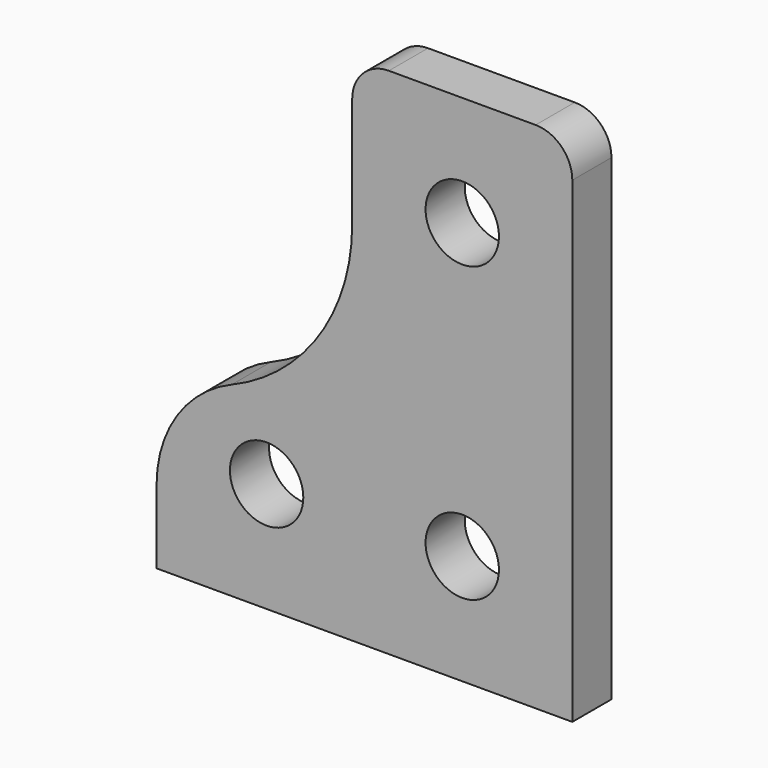
from build123d import *

# Parameters (mm, degrees)
F0_W      = 17
F0_H      = 15
F1_DEPTH  = 2
F2_R      = 1.5
F3_DEPTH  = 25
F4_W      = 9
F4_H      = 2
F5_DEPTH  = 6
F6_R      = 1.5
F7_DEPTH  = 25
F8_R      = 1.5
F9_W      = 17
F9_H      = 2
F10_DEPTH = 1
F11_W     = 17
F11_H     = 6
F12_DEPTH = 8
F13_W     = 17
F13_H     = 8
F14_DEPTH = 25
F15_W     = 17
F15_H     = 2
F16_DEPTH = 1
F17_R     = 8
F18_DEPTH = 25
F19_R     = 5


with BuildPart() as f1:
    # F0 (on Front) → F1 (new body)
    with BuildSketch(Plane.XZ):
        Rectangle(F0_W, F0_H)
    extrude(amount=F1_DEPTH)

    # F2 (on face) → F3 (cut)
    with BuildSketch(Plane.XZ.offset(2)):
        with Locations((-4, -3)):
            Circle(F2_R)
        with Locations((4, -3)):
            Circle(F2_R)
    extrude(amount=-F3_DEPTH, mode=Mode.SUBTRACT)

    # F4 (on face) → F5 (join)
    with BuildSketch(Plane.XY.offset(7.5)):
        with Locations((4, -1)):
            Rectangle(F4_W, F4_H)
    extrude(amount=F5_DEPTH)

    # F6 (on face) → F7 (cut)
    with BuildSketch(Plane.XZ.offset(2)):
        with Locations((4, 9)):
            Circle(F6_R)
    extrude(amount=-F7_DEPTH, mode=Mode.SUBTRACT)

    # F8
    f8_edges = [f1.edges().sort_by_distance(p)[0] for p in [
        (8.5, -1, 13.5),
        (-0.5, -1, 13.5),
    ]]
    fillet(f8_edges, radius=F8_R)

    # F9 (on face) → F10 (join)
    with BuildSketch(Plane(origin=(0, 0, -7.5), x_dir=(1, 0, 0), z_dir=(0, 0, -1))):
        with Locations((0, 1)):
            Rectangle(F9_W, F9_H)
    extrude(amount=F10_DEPTH)

    # F11 (on face) → F12 (join)
    with BuildSketch(Plane(origin=(0, 0, -8.5), x_dir=(1, 0, 0), z_dir=(0, 0, -1))):
        with Locations((0, -1)):
            Rectangle(F11_W, F11_H)
    extrude(amount=F12_DEPTH)

    # F13 (on face) → F14 (cut)
    with BuildSketch(Plane(origin=(0, 4, 0), x_dir=(-1, 0, 0), z_dir=(0, 1, 0))):
        with Locations((0, -12.5)):
            Rectangle(F13_W, F13_H)
    extrude(amount=-F14_DEPTH, mode=Mode.SUBTRACT)

    # F15 (on face) → F16 (cut)
    with BuildSketch(Plane(origin=(0, 0, -8.5), x_dir=(1, 0, 0), z_dir=(0, 0, -1))):
        with Locations((0, 1)):
            Rectangle(F15_W, F15_H)
    extrude(amount=-F16_DEPTH, mode=Mode.SUBTRACT)

    # F17 (on face) → F18 (cut)
    with BuildSketch(Plane(origin=(0, 0, 0), x_dir=(-1, 0, 0), z_dir=(0, 1, 0))):
        with Locations((8.5, 7.5)):
            Circle(F17_R)
    extrude(amount=-F18_DEPTH, mode=Mode.SUBTRACT)

    # F19
    f19_edges = [f1.edges().sort_by_distance(p)[0] for p in [
        (-8.5, -1, -0.5),
    ]]
    fillet(f19_edges, radius=F19_R)


solid = f1.part
